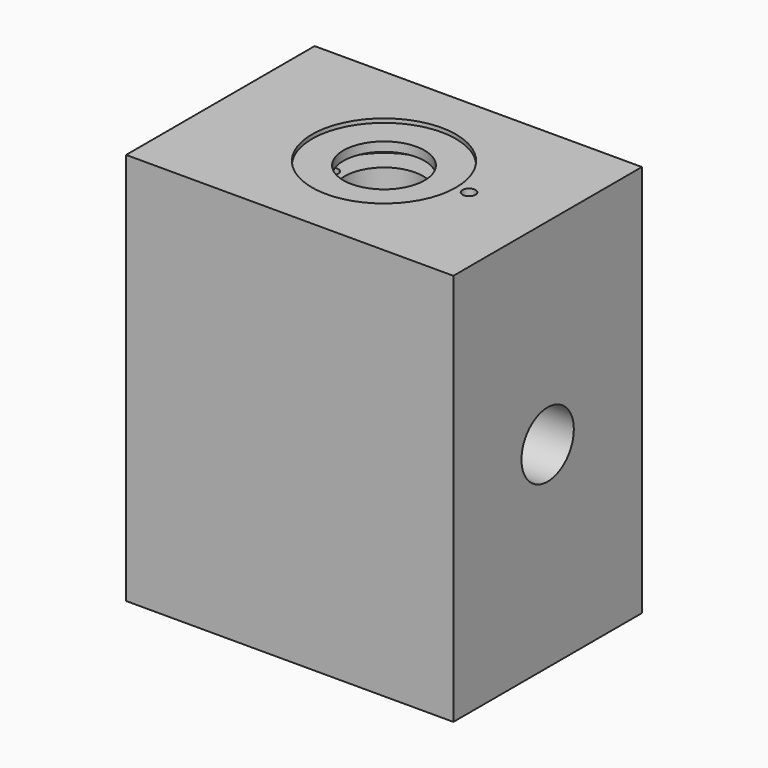
from build123d import *

# Parameters (mm, degrees)
F0_W      = 25
F0_H      = 30
F1_DEPTH  = 9
F12_R     = 2.5
F2_DEPTH  = 20
F13_R     = 3
F3_DEPTH  = 30.001
F13_R_2   = 0.5
F14_DEPTH = 30.0010001
F4_R      = 2.5
F5_DEPTH  = 8
F6_R      = 0.5
F15_DEPTH = 3.5515103572
F7_DEPTH  = 9
F16_DEPTH = 3.5515103572
F13_R_3   = 5.5
F8_DEPTH  = 2
F6_R_2    = 8
F9_DEPTH  = 2
F10_R     = 0.5
F11_DEPTH = 0.7


with BuildPart() as f1:
    # F0 (on Front) → F1 (new body, symmetric)
    with BuildSketch(Plane.XZ):
        with Locations((12.5, 15)):
            Rectangle(F0_W, F0_H)
    extrude(amount=F1_DEPTH, both=True)

    # F12 (on face) → F2 (cut)
    with BuildSketch(Plane.YZ.offset(25)):
        with Locations((0, 15)):
            Circle(F12_R)
    extrude(amount=-F2_DEPTH, mode=Mode.SUBTRACT)

    # F13 (on face) → F3 (cut, through all)
    with BuildSketch(Plane.XY.offset(30)):
        with Locations((12.5, 0)):
            Circle(F13_R)
    extrude(amount=-F3_DEPTH, mode=Mode.SUBTRACT)

    # F13 (on face) → F14 (cut, through all)
    with BuildSketch(Plane.XY.offset(30)):
        with Locations((19, 0)):
            Circle(F13_R_2)
    extrude(amount=-F14_DEPTH, mode=Mode.SUBTRACT)

    # F4 (on face) → F5 (cut)
    with BuildSketch(Plane(origin=(0, 0, 0), x_dir=(0, -1, 0), z_dir=(-1, 0, 0))):
        with Locations((0, 6)):
            Circle(F4_R)
    extrude(amount=-F5_DEPTH, mode=Mode.SUBTRACT)

    # F6 (on Top) → F15 (cut, through all)
    with BuildSketch(Plane.XY):
        with Locations((3.5, 0)):
            Circle(F6_R)
    extrude(amount=F15_DEPTH, mode=Mode.SUBTRACT)

    # F4 (on face) → F7 (cut)
    with BuildSketch(Plane(origin=(0, 0, 0), x_dir=(0, -1, 0), z_dir=(-1, 0, 0))):
        with Locations((0, 24)):
            Circle(F4_R)
    extrude(amount=-F7_DEPTH, mode=Mode.SUBTRACT)

    # F13 (on face) → F16 (cut, through all)
    with BuildSketch(Plane.XY.offset(30)):
        with Locations((8.5, 0)):
            Circle(F13_R_2)
    extrude(amount=-F16_DEPTH, mode=Mode.SUBTRACT)

    # F13 (on face) → F8 (cut)
    with BuildSketch(Plane.XY.offset(30)):
        with Locations((12.5, 0)):
            Circle(F13_R_3)
        with Locations((8.5, 0)):
            Circle(F13_R_2, mode=Mode.SUBTRACT)
        with Locations((12.5, 0)):
            Circle(F13_R, mode=Mode.SUBTRACT)
    extrude(amount=-F8_DEPTH, mode=Mode.SUBTRACT)

    # F6 (on Top) → F9 (cut)
    with BuildSketch(Plane.XY):
        with Locations((12.5, 0)):
            Circle(F6_R_2)
    extrude(amount=F9_DEPTH, mode=Mode.SUBTRACT)


with BuildPart() as f17:
    # F10 (on Front) → F17 (revolve)
    with BuildSketch(Plane.XZ):
        with BuildLine():
            ThreePointArc((7.5, 29), (7.1464466094, 28.1464466094), (8, 28.5))
            ThreePointArc((8, 28.5), (7.8535533906, 28.8535533906), (7.5, 29))
        make_face()
    revolve(axis=Axis((12.5, 0, 29), (0, 0, -1)))


with BuildPart() as f18:
    # F10 (on Front) → F18 (revolve)
    with BuildSketch(Plane.XZ):
        Polygon((7, 29), (7.5, 29), (9.4, 29), (9.4, 29.7), (7, 29.7), align=None)
    revolve(axis=Axis((12.5, 0, 29), (0, 0, -1)))


with BuildPart() as f19:
    # F10 (on Front) → F19 (revolve)
    with BuildSketch(Plane.XZ):
        with Locations((5, 1.5)):
            Circle(F10_R)
    revolve(axis=Axis((12.5, 0, 1), (0, 0, 1)))


with BuildPart() as f11:
    # F6 (on Top) → F11 (new body)
    with BuildSketch(Plane.XY):
        with Locations((12.5, 0)):
            Circle(F6_R_2)
    extrude(amount=F11_DEPTH)


solid = Compound([f1.part, f17.part, f18.part, f19.part, f11.part])
